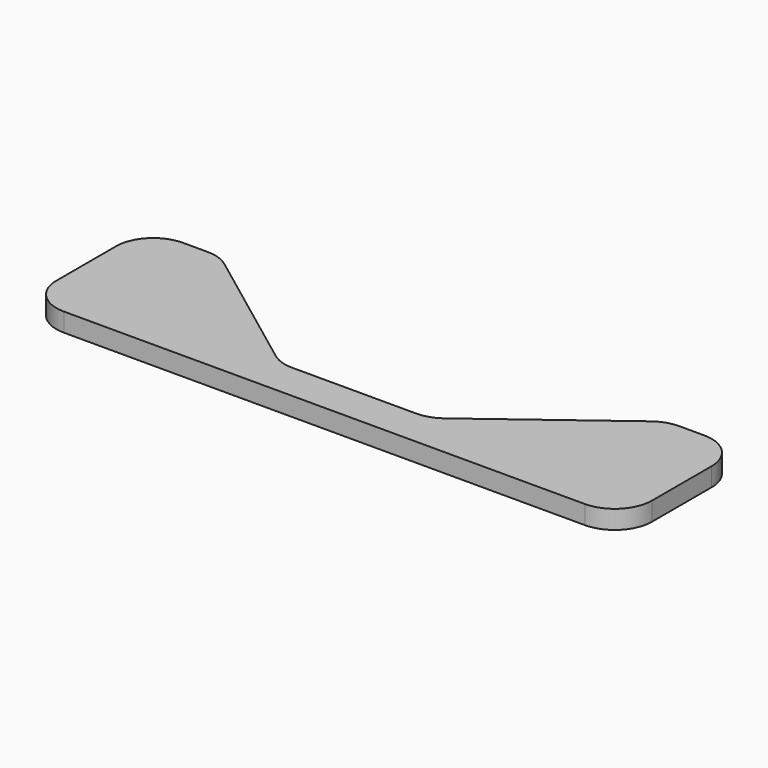
from build123d import *

# Parameters (mm, degrees)
F1_DEPTH = 3.175


with BuildPart() as f1:
    # F0 (on Top) → F1 (new body)
    with BuildSketch(Plane.XY):
        with BuildLine():
            ThreePointArc((-36.406668, 11.43), (-38.208621, 12.374139), (-40.216668, 12.7))
            Line((-40.216668, 12.7), (-44.45, 12.7))
            ThreePointArc((-44.45, 12.7), (-48.940128, 10.840128), (-50.8, 6.35))
            Line((-50.8, 6.35), (-50.8, -6.35))
            ThreePointArc((-50.8, -6.35), (-48.940128, -10.840128), (-44.45, -12.7))
            Line((-44.45, -12.7), (44.45, -12.7))
            ThreePointArc((44.45, -12.7), (48.940128, -10.840128), (50.8, -6.35))
            Line((50.8, -6.35), (50.8, 6.35))
            ThreePointArc((50.8, 6.35), (48.940128, 10.840128), (44.45, 12.7))
            Line((44.45, 12.7), (40.216667, 12.7))
            ThreePointArc((40.216667, 12.7), (38.20862, 12.374139), (36.406667, 11.43))
            Line((36.406667, 11.43), (14.393333, -5.08))
            ThreePointArc((14.393333, -5.08), (12.59138, -6.024139), (10.583333, -6.35))
            Line((10.583333, -6.35), (-10.583333, -6.35))
            ThreePointArc((-10.583333, -6.35), (-12.59138, -6.024139), (-14.393333, -5.08))
            Line((-14.393333, -5.08), (-36.406668, 11.43))
        make_face()
    extrude(amount=-F1_DEPTH)


solid = f1.part
